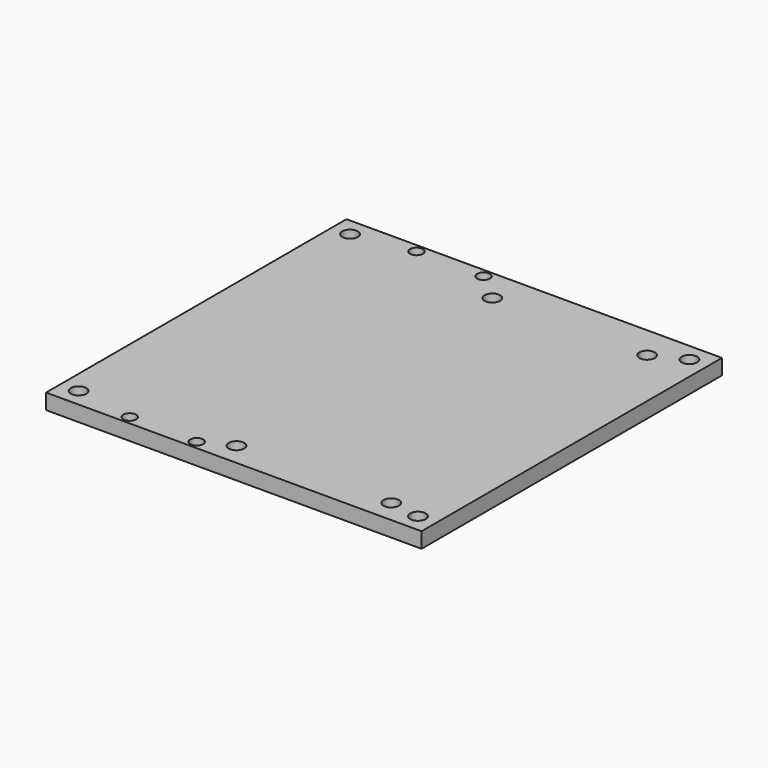
from build123d import *

# Parameters (mm, degrees)
SKETCH019_W     = 72.78
SKETCH019_H     = 72.78
PAD009_DEPTH    = 3
SKETCH040_R     = 1.5
POCKET007_DEPTH = 3.001
SKETCH046_R     = 1.5
POCKET008_DEPTH = 3.001
SKETCH079_R     = 1.25
POCKET016_DEPTH = 3.001


with BuildPart() as part:
    # Sketch019 → Pad009 (new body)
    with BuildSketch(Plane.XY):
        Rectangle(SKETCH019_W, SKETCH019_H)
    extrude(amount=PAD009_DEPTH)

    # Sketch040 → Pocket007 (cut, through all)
    with BuildSketch(Plane.XY.offset(3)):
        with Locations((-32.89, 32.89)):
            Circle(SKETCH040_R)
        with Locations((32.89, 32.89)):
            Circle(SKETCH040_R)
        with Locations((-32.89, -32.89)):
            Circle(SKETCH040_R)
        with Locations((32.89, -32.89)):
            Circle(SKETCH040_R)
    extrude(amount=-POCKET007_DEPTH, mode=Mode.SUBTRACT)

    # Sketch046 (on Face5 of Pocket007) → Pocket008 (cut, through all)
    with BuildSketch(Plane.XY.offset(3)):
        with Locations((-3, 30)):
            Circle(SKETCH046_R)
        with Locations((27, 30)):
            Circle(SKETCH046_R)
        with Locations((-3, -32)):
            Circle(SKETCH046_R)
        with Locations((27, -32)):
            Circle(SKETCH046_R)
    extrude(amount=-POCKET008_DEPTH, mode=Mode.SUBTRACT)

    # Sketch079 (on Face5 of Pocket008) → Pocket016 (cut, through all)
    with BuildSketch(Plane.XY.offset(3)):
        with Locations((-21.5, 34.75)):
            Circle(SKETCH079_R)
        with Locations((-8.5, 34.75)):
            Circle(SKETCH079_R)
        with Locations((-21.5, -34.75)):
            Circle(SKETCH079_R)
        with Locations((-8.5, -34.75)):
            Circle(SKETCH079_R)
    extrude(amount=-POCKET016_DEPTH, mode=Mode.SUBTRACT)


with BuildPart() as part_1:
    # Body002 placement: moved
    add(part.part.moved(Location((0, 0, 41))))


solid = part_1.part
